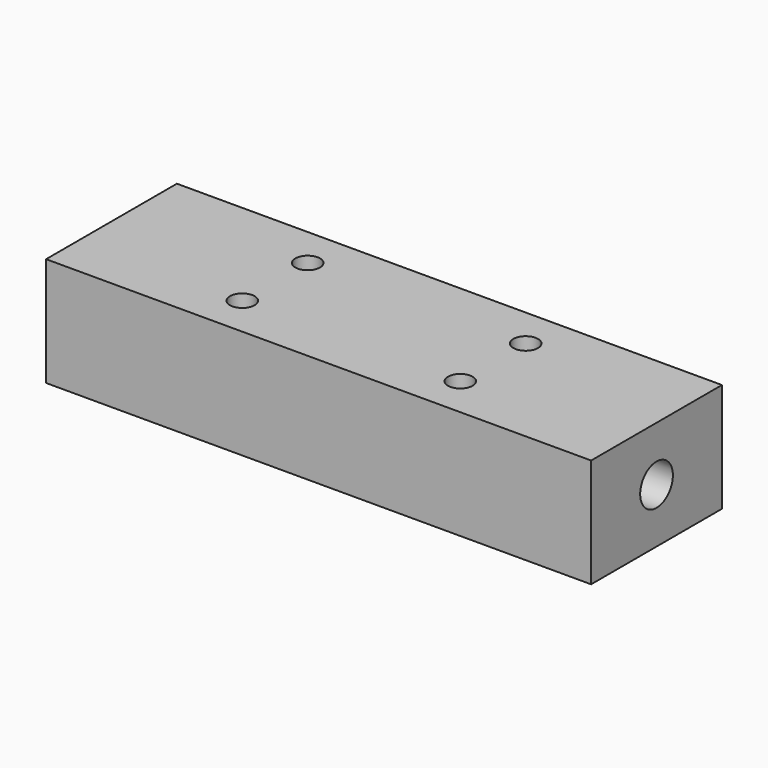
from build123d import *

# Parameters (mm, degrees)
F0_W           = 254
F0_H           = 76.2
F1_DEPTH       = 50.8
F2_D           = 11.5062
F2_DEPTH       = 19.05
F2_TIP         = 3.4568112273
F4_D           = 12.7
F4_DEPTH       = 228.6
F4_CBORE_D     = 19.05
F4_CBORE_DEPTH = 25.4
F4_TIP         = 3.8154649308


with BuildPart() as f1:
    # F0 (on Top) → F1 (new body)
    with BuildSketch(Plane.XY):
        Rectangle(F0_W, F0_H)
    extrude(amount=-F1_DEPTH)

    # F2
    with Locations(Plane.XY):
        with Locations((-50.8, 19.05), (50.8, 19.05), (50.8, -19.05), (-50.8, -19.05)):
            Hole(F2_D / 2, depth=F2_DEPTH)
            with Locations((0, 0, -(F2_DEPTH + F2_TIP / 2))):  # 118° drill point
                Cone(0, F2_D / 2, F2_TIP, mode=Mode.SUBTRACT)

    # F4
    with Locations(Plane.YZ.offset(127)):
        with Locations((0, -25.4)):
            CounterBoreHole(F4_D / 2, F4_CBORE_D / 2, F4_CBORE_DEPTH, depth=F4_DEPTH)
            with Locations((0, 0, -(F4_DEPTH + F4_TIP / 2))):  # 118° drill point
                Cone(0, F4_D / 2, F4_TIP, mode=Mode.SUBTRACT)


solid = f1.part
